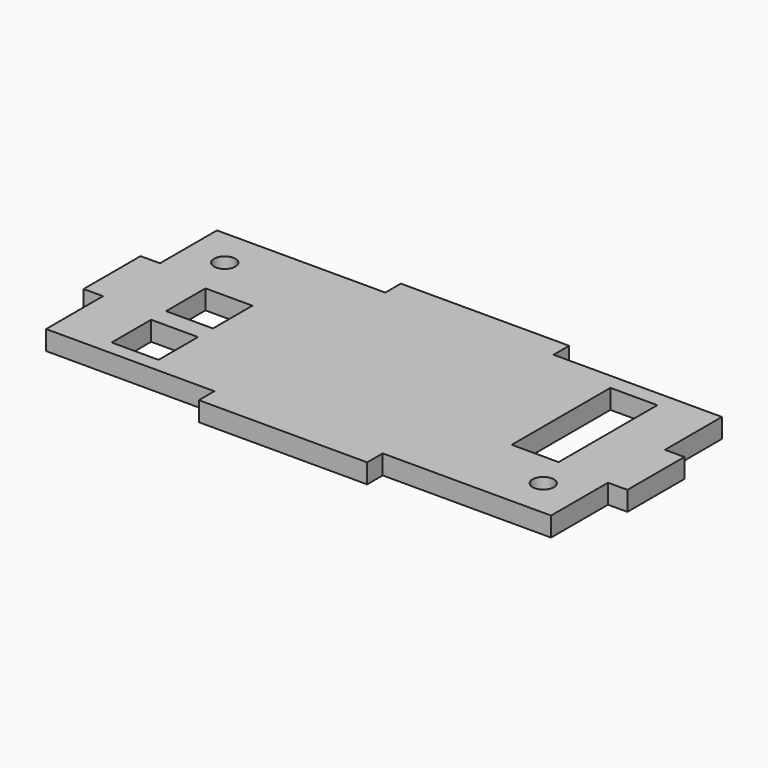
from build123d import *

# Parameters (mm, degrees)
PAD001_DEPTH    = 2
SKETCH001_W     = 4.83
SKETCH001_H     = 12.7
POCKET_DEPTH    = 2
SKETCH006_W     = 4.83
SKETCH006_H     = 5.08
POCKET001_DEPTH = 2
SKETCH007_W     = 4.83
SKETCH007_H     = 5.08
POCKET002_DEPTH = 2
SKETCH029_R     = 1.1
POCKET011_DEPTH = 2
SKETCH030_R     = 1.1
POCKET012_DEPTH = 2


with BuildPart() as part:
    # Sketch → Pad001 (new body)
    with BuildSketch(Plane.XY):
        Polygon((-8.666667, 13), (8.666667, 13), (8.666667, 11), (26, 11), (26, 3.666667), (28, 3.666667), (28, -3.666667), (26, -3.666667), (26, -11), (8.666667, -11), (8.666667, -13), (-8.666667, -13), (-8.666667, -11), (-26, -11), (-26, -3.666667), (-28, -3.666667), (-28, 3.666667), (-26, 3.666667), (-26, 11), (-8.666667, 11), align=None)
    extrude(amount=PAD001_DEPTH)

    # Sketch001 (on Face22 of Pad001) → Pocket (cut)
    with BuildSketch(Plane.XY.offset(2)):
        with Locations((18.25, 3)):
            Rectangle(SKETCH001_W, SKETCH001_H)
    extrude(amount=-POCKET_DEPTH, mode=Mode.SUBTRACT)

    # Sketch006 (on Face5 of Pocket) → Pocket001 (cut)
    with BuildSketch(Plane.XY.offset(2)):
        with Locations((-18, 0)):
            Rectangle(SKETCH006_W, SKETCH006_H)
    extrude(amount=-POCKET001_DEPTH, mode=Mode.SUBTRACT)

    # Sketch007 (on Face5 of Pocket001) → Pocket002 (cut)
    with BuildSketch(Plane.XY.offset(2)):
        with Locations((-18, -7)):
            Rectangle(SKETCH007_W, SKETCH007_H)
    extrude(amount=-POCKET002_DEPTH, mode=Mode.SUBTRACT)

    # Sketch029 (on Face5 of Pocket002) → Pocket011 (cut)
    with BuildSketch(Plane.XY.offset(2)):
        with Locations((-22, 7)):
            Circle(SKETCH029_R)
    extrude(amount=-POCKET011_DEPTH, mode=Mode.SUBTRACT)

    # Sketch030 (on Face5 of Pocket011) → Pocket012 (cut)
    with BuildSketch(Plane.XY.offset(2)):
        with Locations((22, -7)):
            Circle(SKETCH030_R)
    extrude(amount=-POCKET012_DEPTH, mode=Mode.SUBTRACT)


with BuildPart() as part_1:
    # Body001 placement: moved
    add(part.part.moved(Location((-26, -11, 14))))


solid = part_1.part
